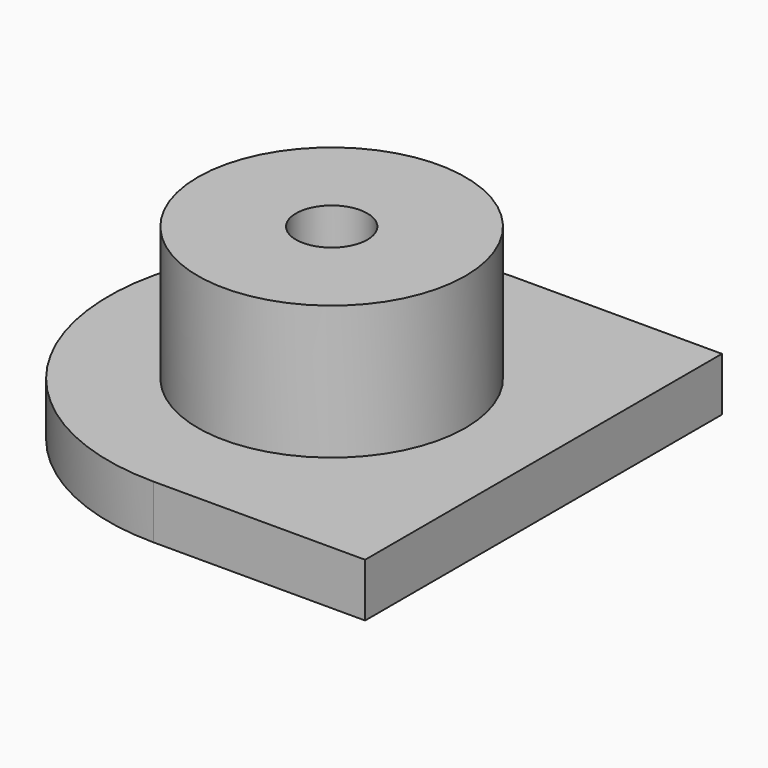
from build123d import *

# Parameters (mm, degrees)
PAD001_DEPTH = 1.2
SKETCH002_R  = 3
PAD002_DEPTH = 3
SKETCH003_R  = 0.8
POCKET_DEPTH = 5


with BuildPart() as part:
    # Sketch001 → Pad001 (new body)
    with BuildSketch(Plane.XY):
        with BuildLine():
            ThreePointArc((-47.75, 5), (-52.75, 0), (-47.75, -5))
            Line((-43, -5), (-47.75, -5))
            Line((-43, 5), (-43, -5))
            Line((-47.75, 5), (-43, 5))
        make_face()
    extrude(amount=PAD001_DEPTH)

    # Sketch002 → Pad002 (new body)
    with BuildSketch(Plane.XY.offset(1.2)):
        with Locations((-47.75, 0)):
            Circle(SKETCH002_R)
    extrude(amount=PAD002_DEPTH)

    # Sketch003 → Pocket (cut)
    with BuildSketch(Plane.XY.offset(4.2)):
        with Locations((-47.75, 0)):
            Circle(SKETCH003_R)
    extrude(amount=-POCKET_DEPTH, mode=Mode.SUBTRACT)


solid = part.part
